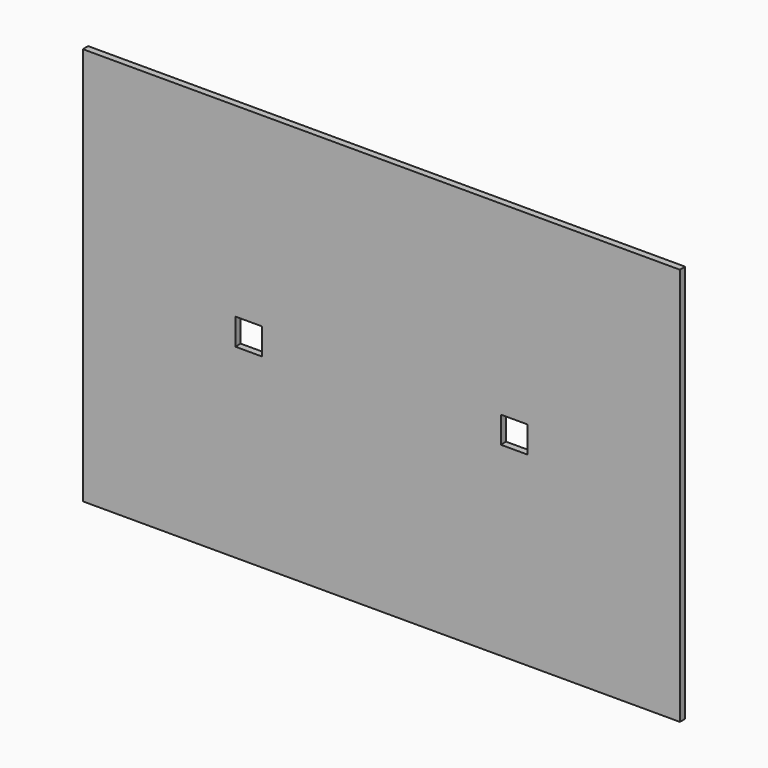
from build123d import *

# Parameters (mm, degrees)
SKETCH_W   = 900
SKETCH_H   = 600
SKETCH_W_2 = 40
SKETCH_H_2 = 40
PAD_DEPTH  = 10


with BuildPart() as part:
    # Sketch → Pad (new body)
    with BuildSketch(Plane.XZ):
        Rectangle(SKETCH_W, SKETCH_H)
        with Locations((-200, 0)):
            Rectangle(SKETCH_W_2, SKETCH_H_2, mode=Mode.SUBTRACT)
        with Locations((200, 0)):
            Rectangle(SKETCH_W_2, SKETCH_H_2, mode=Mode.SUBTRACT)
    extrude(amount=PAD_DEPTH)


solid = part.part
